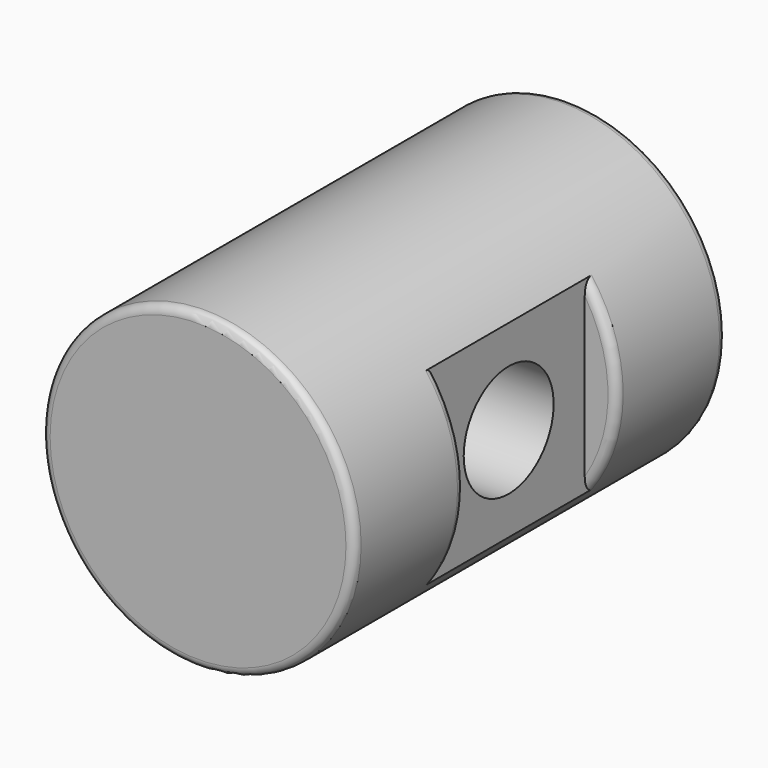
from build123d import *

# Parameters (mm, degrees)
F0_R          = 9.398
F1_DEPTH      = 13.97
F1_DEPTH_BACK = 13.97
F4_D          = 6.7564
F5_W          = 11.43
F5_H          = 25.3408506978
F6_DEPTH      = 2.54
F7_R          = 0.508


with BuildPart() as f1:
    # F0 (on Front) → F1 (new body, two sides)
    with BuildSketch(Plane.XZ) as f1_sk:
        Circle(F0_R)
    extrude(amount=F1_DEPTH)
    extrude(f1_sk.sketch, amount=-F1_DEPTH_BACK)

    # F4 (through all)
    with Locations(Plane.YZ.offset(10.033)):
        with Locations((0, 0)):
            Hole(F4_D / 2)

    # F5 (on offset) → F6 (cut)
    with BuildSketch(Plane.YZ.offset(10.033)):
        Rectangle(F5_W, F5_H)
    extrude(amount=-F6_DEPTH, mode=Mode.SUBTRACT)

    # F7
    f7_edges = [f1.edges().sort_by_distance(p)[0] for p in [
        (-9.398, 13.97, 0),
        (-9.398, -13.97, 0),
        (8.90903, 5.715, 2.991922),
        (8.90903, 5.715, -2.991922),
        (8.90903, -5.715, 2.991922),
        (8.90903, -5.715, -2.991922),
    ]]
    fillet(f7_edges, radius=F7_R)


solid = f1.part
